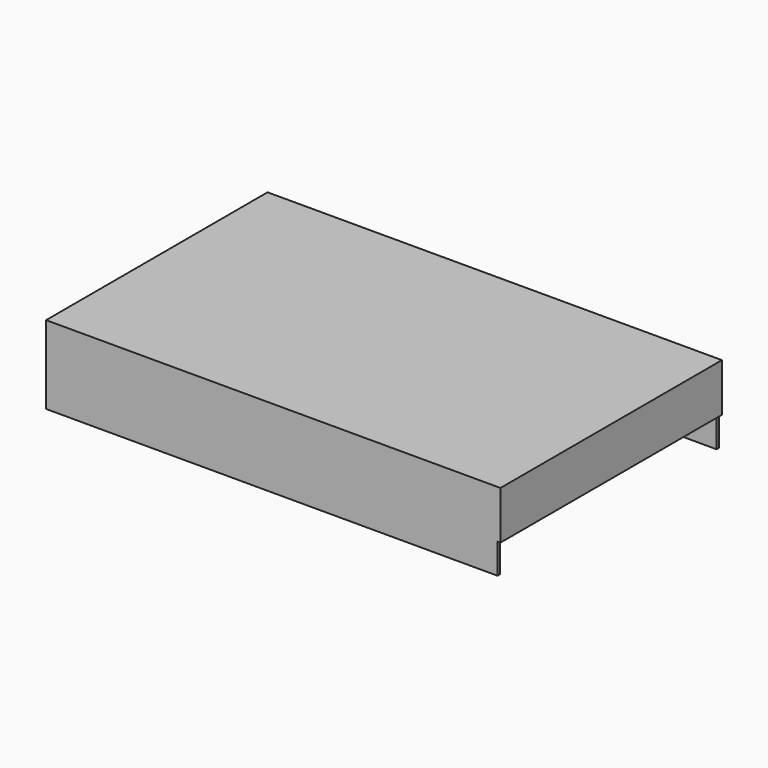
from build123d import *

# Parameters (mm, degrees)
F0_W     = 1
F0_H     = 54
F1_DEPTH = 1
F2_DEPTH = 25
F3_DEPTH = 10
F4_DEPTH = 15


with BuildPart() as f1:
    # F0 (on Top) → F1 (new body)
    with BuildSketch(Plane.XY):
        with Locations((0.5, 56)):
            Rectangle(F0_W, F0_H)
        Polygon((150, 1), (150, 0), (151, 0), (151, 92), (150, 92), (150, 91), align=None)
        Polygon((1, 1), (150, 1), (150, 91), (1, 91), (1, 83), (1, 29), align=None)
        Polygon((0, 92), (0, 83), (1, 83), (1, 91), (150, 91), (150, 92), align=None)
        Polygon((0, 29), (0, 0), (150, 0), (150, 1), (1, 1), (1, 29), align=None)
    extrude(amount=F1_DEPTH)

    # F0 (on Top) → F2 (join)
    with BuildSketch(Plane.XY):
        Polygon((0, 29), (0, 0), (150, 0), (150, 1), (1, 1), (1, 29), align=None)
        Polygon((0, 92), (0, 83), (1, 83), (1, 91), (150, 91), (150, 92), align=None)
    extrude(amount=-F2_DEPTH)

    # F0 (on Top) → F3 (join)
    with BuildSketch(Plane.XY):
        with Locations((0.5, 56)):
            Rectangle(F0_W, F0_H)
    extrude(amount=-F3_DEPTH)

    # F0 (on Top) → F4 (join)
    with BuildSketch(Plane.XY):
        Polygon((150, 1), (150, 0), (151, 0), (151, 92), (150, 92), (150, 91), align=None)
    extrude(amount=-F4_DEPTH)


solid = f1.part
